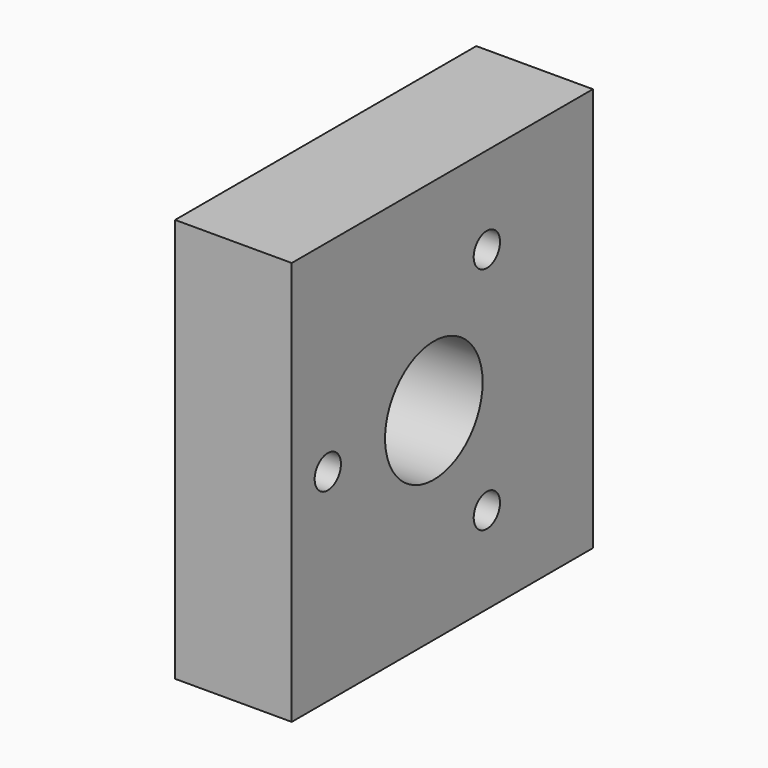
from build123d import *

# Parameters (mm, degrees)
SKETCH005_W     = 71
SKETCH005_H     = 76.2
PAD_DEPTH       = 22
SKETCH003_R     = 11.5
SKETCH003_R_2   = 3.1
POCKET_DEPTH    = 30
SKETCH004_R     = 4.15
POCKET001_DEPTH = 16
SKETCH_R        = 6
POCKET002_DEPTH = 6


with BuildPart() as part:
    # Sketch005 → Pad (new body)
    with BuildSketch(Plane.YZ):
        with Locations((-35.5, 38.1)):
            Rectangle(SKETCH005_W, SKETCH005_H)
    extrude(amount=PAD_DEPTH)

    # Sketch003 → Pocket (cut)
    with BuildSketch(Plane.YZ.offset(22)):
        with Locations((-37.5, 38.1)):
            Circle(SKETCH003_R)
        with Locations((-25, 16.449365)):
            Circle(SKETCH003_R_2)
        with Locations((-25, 59.750635)):
            Circle(SKETCH003_R_2)
        with Locations((-62.5, 38.1)):
            Circle(SKETCH003_R_2)
    extrude(amount=-POCKET_DEPTH, mode=Mode.SUBTRACT)

    # Sketch004 → Pocket001 (cut)
    with BuildSketch(Plane.ZX):
        with Locations((10, 8)):
            Circle(SKETCH004_R)
        with Locations((66.2, 8)):
            Circle(SKETCH004_R)
        with Locations((38.1, 15)):
            Circle(SKETCH004_R)
    extrude(amount=-POCKET001_DEPTH, mode=Mode.SUBTRACT)

    # Sketch → Pocket002 (cut)
    with BuildSketch(Plane(origin=(0, 0, 0), x_dir=(0, 1, 0), z_dir=(-1, 0, 0))):
        with Locations((-25, -59.750635)):
            Circle(SKETCH_R)
        with Locations((-25, -16.449365)):
            Circle(SKETCH_R)
        with Locations((-62.5, -38.1)):
            Circle(SKETCH_R)
    extrude(amount=-POCKET002_DEPTH, mode=Mode.SUBTRACT)


solid = part.part
